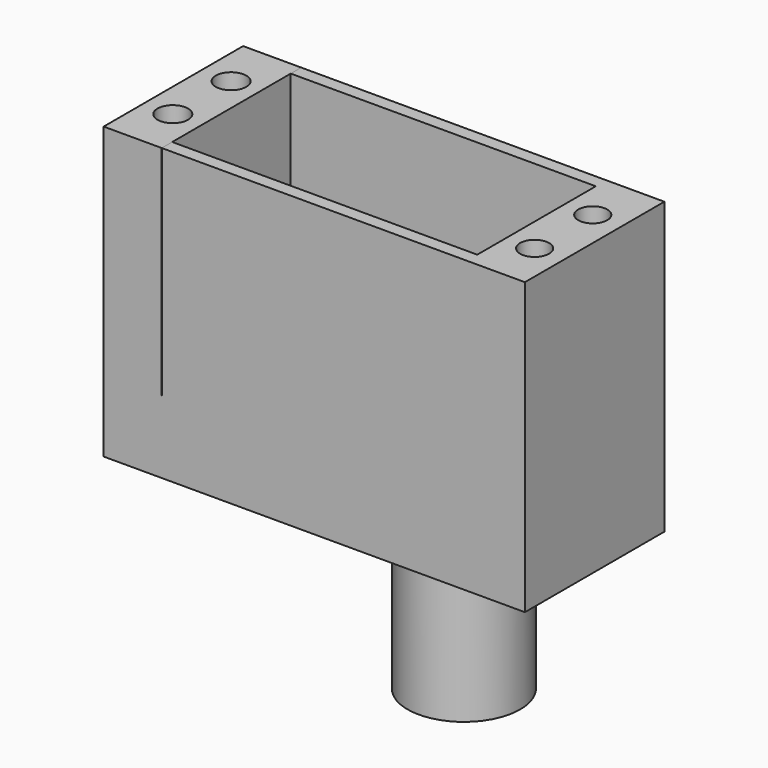
from build123d import *

# Parameters (mm, degrees)
PAD_DEPTH       = 24
SKETCH003_W     = 42
SKETCH003_H     = 1.8
PAD002_DEPTH    = 30
SKETCH001_R     = 10
POCKET_DEPTH    = 5
SKETCH004_R     = 7.75
PAD003_DEPTH    = 25
SKETCH005_R     = 2.000122
SKETCH005_R_2   = 2.001214
SKETCH005_R_3   = 2.1
SKETCH005_R_4   = 2.10238
POCKET001_DEPTH = 10


with BuildPart() as part:
    # Sketch → Pad (new body)
    with BuildSketch(Plane.XZ):
        Polygon((-21.000973, 28), (-29, 28), (-29, -2), (-29, -12), (29, -12), (29, 28), (21, 28), (21, -2), (-21.000973, -2), align=None)
    extrude(amount=PAD_DEPTH)

    # Sketch003 → Pad002 (join)
    with BuildSketch(Plane(origin=(0, 0, -2), x_dir=(-1, 0, 0), z_dir=(0, 0, 1))):
        with Locations((0, 0.9)):
            Rectangle(SKETCH003_W, SKETCH003_H)
        with Locations((0, 23.1)):
            Rectangle(SKETCH003_W, SKETCH003_H)
    extrude(amount=PAD002_DEPTH)

    # Sketch001 (on Face5 of Pad) → Pocket (cut)
    with BuildSketch(Plane(origin=(0, 0, -12), x_dir=(1, 0, 0), z_dir=(0, 0, -1))):
        with Locations((11, 12)):
            Circle(SKETCH001_R)
    extrude(amount=-POCKET_DEPTH, mode=Mode.SUBTRACT)

    # Sketch004 (on Face21 of Pocket) → Pad003 (join)
    with BuildSketch(Plane(origin=(0, 0, -7), x_dir=(1, 0, 0), z_dir=(0, 0, -1))):
        with Locations((11, 12)):
            Circle(SKETCH004_R)
    extrude(amount=PAD003_DEPTH)

    # Sketch005 (on Face15 of Pad003) → Pocket001 (cut)
    with BuildSketch(Plane(origin=(0, 0, 28), x_dir=(-1, 0, 0), z_dir=(0, 0, 1))):
        with Locations((-24.9, 17.2)):
            Circle(SKETCH005_R)
        with Locations((-24.9, 7.2)):
            Circle(SKETCH005_R_2)
        with Locations((24.9, 7.2)):
            Circle(SKETCH005_R_3)
        with Locations((25, 17.1)):
            Circle(SKETCH005_R_4)
    extrude(amount=-POCKET001_DEPTH, mode=Mode.SUBTRACT)


solid = part.part
